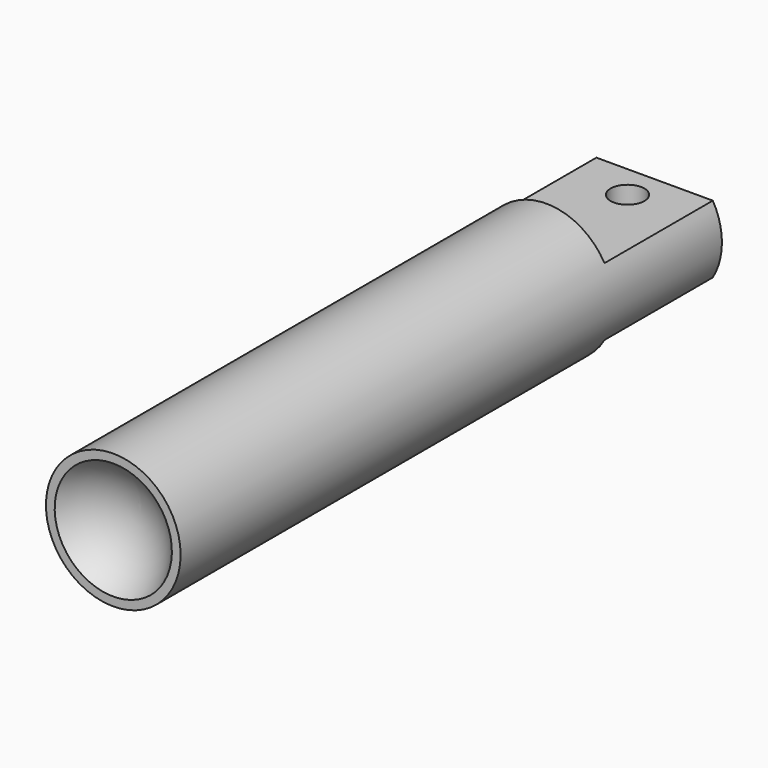
from build123d import *

# Parameters (mm, degrees)
F0_R          = 4.975
F1_DEPTH      = 50
F4_W          = 36.9355937797
F4_H          = 30.9394803881
F4_W_2        = 36.9616359944
F4_H_2        = 51.8604685604
F5_DEPTH      = 4.976
F5_DEPTH_BACK = 4.976
F6_R          = 1.25
F7_DEPTH      = 25


with BuildPart() as f1:
    # F0 (on Front) → F1 (new body)
    with BuildSketch(Plane.XZ):
        Circle(F0_R)
    extrude(amount=F1_DEPTH)

    # F2 (on Right) → F3 (revolve, cut)
    with BuildSketch(Plane.YZ):
        with BuildLine():
            Line((-52.5, 0), (-47.5, 0))
            ThreePointArc((-47.5, 0), (-48.1698729811, 2.5), (-50, 4.3301270189))
            Line((-50, 4.3301270189), (-52.5, 0))
        make_face()
    revolve(axis=Axis((0, -50, 0), (0, 1, 0)), mode=Mode.SUBTRACT)

    # F4 (on Right) → F5 (cut, two sides)
    with BuildSketch(Plane.YZ) as f5_sk:
        with Locations((8.4677968899, 17.9697401941)):
            Rectangle(F4_W, F4_H)
        with Locations((8.4808179972, -28.4302342802)):
            Rectangle(F4_W_2, F4_H_2)
    extrude(amount=-F5_DEPTH, mode=Mode.SUBTRACT)
    extrude(f5_sk.sketch, amount=F5_DEPTH_BACK, mode=Mode.SUBTRACT)

    # F6 (on face) → F7 (cut)
    with BuildSketch(Plane(origin=(0, 0, -2.5), x_dir=(1, 0, 0), z_dir=(0, 0, -1))):
        with Locations((0, 2.5)):
            Circle(F6_R)
    extrude(amount=-F7_DEPTH, mode=Mode.SUBTRACT)


solid = f1.part
